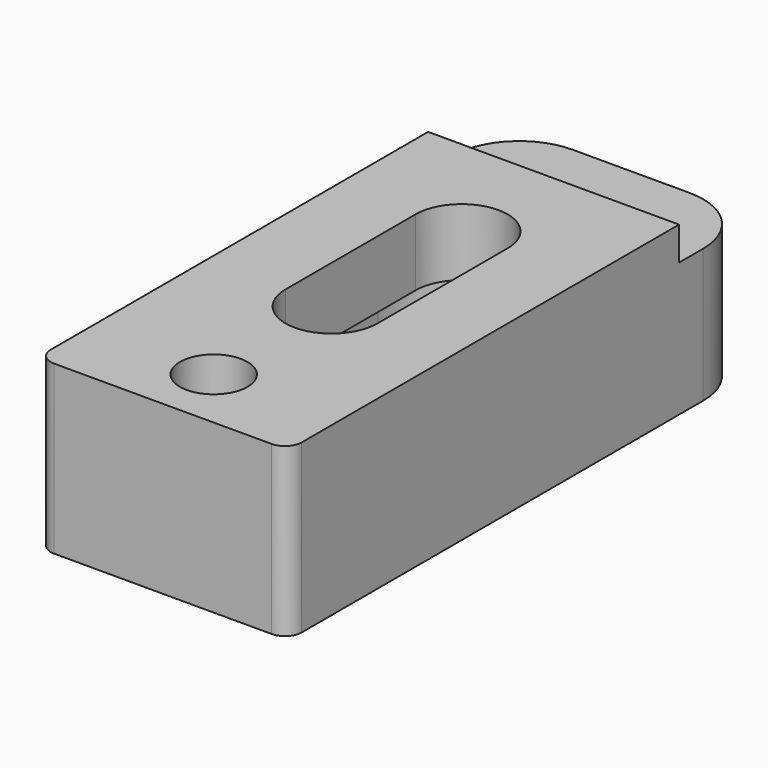
from build123d import *

# Parameters (mm, degrees)
F0_R     = 2.0193
F1_DEPTH = 10
F2_W     = 27.966302
F2_H     = 13.370458
F3_DEPTH = 2
F4_DEPTH = 6


with BuildPart() as f1:
    # F0 (on Top) → F1 (new body)
    with BuildSketch(Plane.XY):
        with BuildLine():
            Line((-6.5, -17.5), (6.5, -17.5))
            ThreePointArc((6.5, -17.5), (7.207107, -17.207107), (7.5, -16.5))
            Line((7.5, -16.5), (7.5, 13.5))
            ThreePointArc((7.5, 13.5), (6.328427, 16.328427), (3.5, 17.5))
            Line((3.5, 17.5), (-3.5, 17.5))
            ThreePointArc((-3.5, 17.5), (-6.328427, 16.328427), (-7.5, 13.5))
            Line((-7.5, 13.5), (-7.5, -16.5))
            ThreePointArc((-7.5, -16.5), (-7.207107, -17.207107), (-6.5, -17.5))
        make_face()
        with Locations((0, -13.698686)):
            Circle(F0_R, mode=Mode.SUBTRACT)
        with BuildLine():
            Line((-5, -4.897373), (-5, 4.822578))
            ThreePointArc((-5, 4.822578), (0, 9.822578), (5, 4.822578))
            Line((5, 4.822578), (5, -4.897373))
            ThreePointArc((5, -4.897373), (0, -9.897373), (-5, -4.897373))
        make_face(mode=Mode.SUBTRACT)
        with BuildLine():
            ThreePointArc((5, 4.822578), (0, 9.822578), (-5, 4.822578))
            Line((-5, 4.822578), (-5, -4.897373))
            ThreePointArc((-5, -4.897373), (0, -9.897373), (5, -4.897373))
            Line((5, -4.897373), (5, 4.822578))
        make_face()
        with BuildLine():
            Line((-2.75, -4.897373), (-2.75, 4.822578))
            ThreePointArc((-2.75, 4.822578), (0, 7.572578), (2.75, 4.822578))
            Line((2.75, 4.822578), (2.75, -4.897373))
            ThreePointArc((2.75, -4.897373), (0, -7.647373), (-2.75, -4.897373))
        make_face(mode=Mode.SUBTRACT)
    extrude(amount=F1_DEPTH)

    # F2 (on face) → F3 (cut)
    with BuildSketch(Plane.XY.offset(10)):
        with Locations((-0.129465, 18.378206)):
            Rectangle(F2_W, F2_H)
    extrude(amount=-F3_DEPTH, mode=Mode.SUBTRACT)

    # F0 (on Top) → F4 (cut)
    with BuildSketch(Plane.XY):
        with BuildLine():
            ThreePointArc((5, 4.822578), (0, 9.822578), (-5, 4.822578))
            Line((-5, 4.822578), (-5, -4.897373))
            ThreePointArc((-5, -4.897373), (0, -9.897373), (5, -4.897373))
            Line((5, -4.897373), (5, 4.822578))
        make_face()
        with BuildLine():
            Line((-2.75, -4.897373), (-2.75, 4.822578))
            ThreePointArc((-2.75, 4.822578), (0, 7.572578), (2.75, 4.822578))
            Line((2.75, 4.822578), (2.75, -4.897373))
            ThreePointArc((2.75, -4.897373), (0, -7.647373), (-2.75, -4.897373))
        make_face(mode=Mode.SUBTRACT)
    extrude(amount=F4_DEPTH, mode=Mode.SUBTRACT)


solid = f1.part
